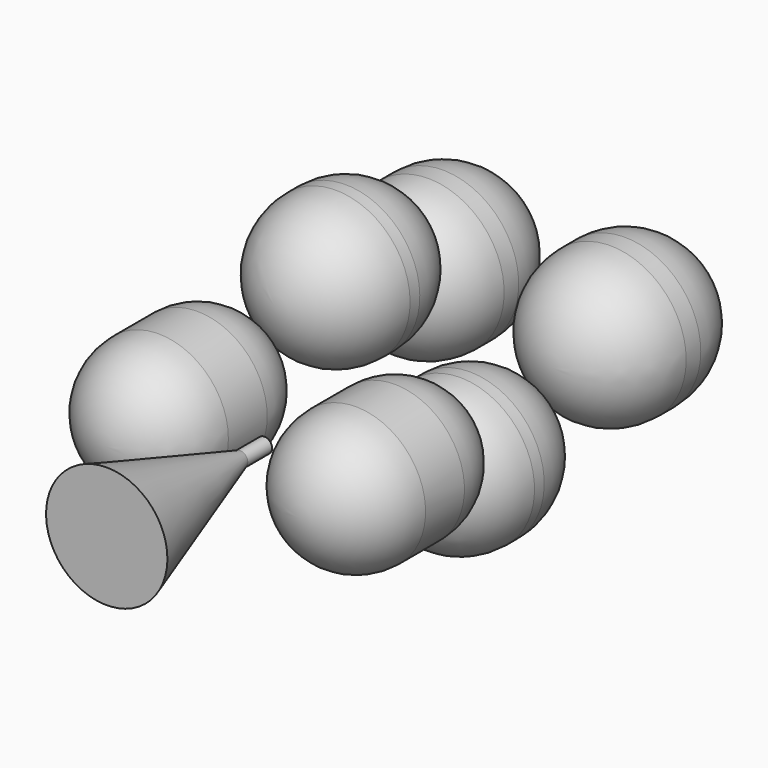
from build123d import *

# Parameters (mm, degrees)
F14_COUNT = 2
F15_COUNT = 2
F16_COUNT = 2


with BuildPart() as f3:
    # F2 (on Top) → F3 (revolve)
    with BuildSketch(Plane.XY):
        with BuildLine():
            ThreePointArc((-95, 80), (-162.3654403271, 242.6345596729), (-325, 310))
            Line((-325, 310), (-325, 305))
            ThreePointArc((-325, 305), (-165.900974233, 239.099025767), (-100, 80))
            Line((-100, 80), (-100, -80))
            ThreePointArc((-100, -80), (-165.900974233, -239.099025767), (-325, -305))
            Line((-325, -305), (-325, -310))
            ThreePointArc((-325, -310), (-162.3654403271, -242.6345596729), (-95, -80))
            Line((-95, -80), (-95, 80))
        make_face()
    revolve(axis=Axis((-325, 0, 0), (0, -1, 0)))


with BuildPart() as f8:
    # F7 (on line) → F8 (revolve)
    with BuildSketch(Plane(origin=(0, 0, 0), x_dir=(0, -1, 0), z_dir=(-0.7071067812, 0, -0.7071067812))):
        with BuildLine():
            ThreePointArc((-500, 530), (-330.2943725152, 459.7056274848), (-260, 290))
            Line((-260, 290), (-255, 290))
            ThreePointArc((-255, 290), (-326.7588386093, 463.2411613907), (-500, 535))
            Line((-500, 535), (-540, 535))
            ThreePointArc((-540, 535), (-713.2411613907, 463.2411613907), (-785, 290))
            Line((-785, 290), (-780, 290))
            ThreePointArc((-780, 290), (-709.7056274848, 459.7056274848), (-540, 530))
            Line((-540, 530), (-500, 530))
        make_face()
    revolve(axis=Axis((-205.0609665441, 662.5, 205.0609665441), (0, 1, 0)))


with BuildPart() as f11:
    # F10 (on Top) → F11 (revolve)
    with BuildSketch(Plane.XY):
        with BuildLine():
            ThreePointArc((-550, 1000), (-476.7766952966, 823.2233047034), (-300, 750))
            Line((-300, 750), (-300, 1000))
            Line((-300, 1000), (-300, 1060))
            Line((-300, 1060), (-300, 1310))
            ThreePointArc((-300, 1310), (-476.7766952966, 1236.7766952966), (-550, 1060))
            Line((-550, 1060), (-550, 1000))
        make_face()
    revolve(axis=Axis((-300, 1185, 0), (0, 1, 0)))


with BuildPart() as f13:
    # F12 (on Right) → F13 (revolve)
    with BuildSketch(Plane.YZ):
        Polygon((-700, 0), (-50, 0), (-50, 25), (-150, 25), (-700, 200), align=None)
    revolve(axis=Axis((0, -350, 0), (0, -1, 0)))


with BuildPart() as f14_1:
    # F14: instance of F3
    add(f3.part.rotate(Axis((0, -350, 0), (0, 1, 0)), 1 * 360 / F14_COUNT))


with BuildPart() as f15_1:
    # F15: instance of F8
    add(f8.part.rotate(Axis((0, -350, 0), (0, 1, 0)), 1 * 360 / F15_COUNT))


with BuildPart() as f16_1:
    # F16: instance of F11
    add(f11.part.rotate(Axis((0, -350, 0), (0, 1, 0)), 1 * 360 / F16_COUNT))


solid = Compound([f3.part, f8.part, f11.part, f13.part, f14_1.part, f15_1.part, f16_1.part])
